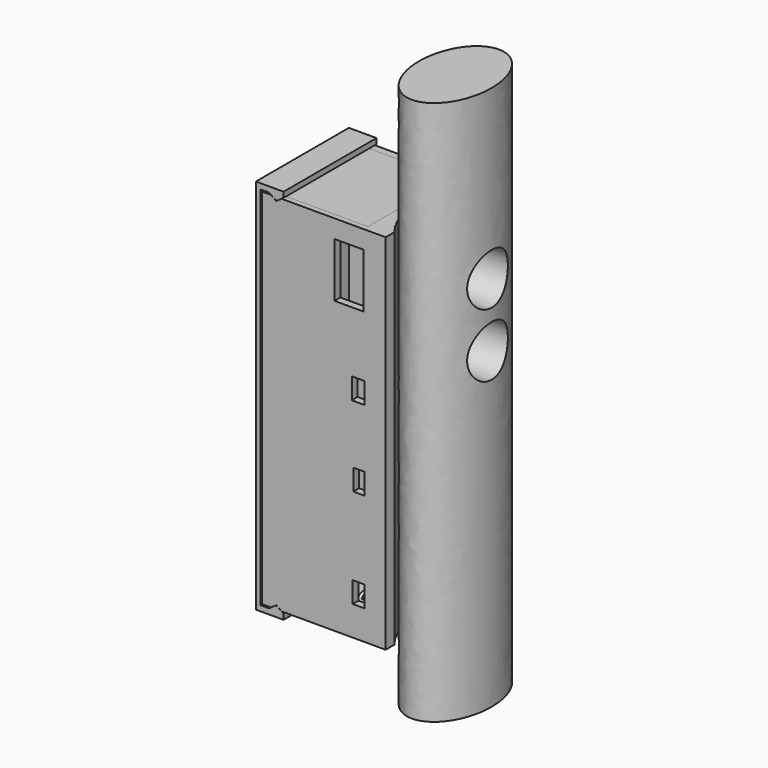
from build123d import *

# Parameters (mm, degrees)
SKETCH001_AS_DRAWN_R                      = 7
EXTRUDE001_DEPTH                          = 15
EXTRUDE001_ONTO_SKETCH001_ROLL_ANGLE      = 90
EXTRUDE001_ONTO_SKETCH001_PLACEMENT_ANGLE = 89.999862
EXTRUDE_DEPTH                             = 150
EXTRUDE008_DEPTH                          = 16
SKETCH011_W                               = 3.217844
SKETCH011_H                               = 5.802109
SKETCH011_W_2                             = 3.034968
SKETCH011_W_3                             = 3.460063
SKETCH011_H_2                             = 5.82222
EXTRUDE010_DEPTH                          = 40
EXTRUDE009_DEPTH                          = 32
SKETCH008_W                               = 8
SKETCH008_H                               = 15
EXTRUDE007_DEPTH                          = 5
SKETCH007_W                               = 8
SKETCH007_H                               = 12
EXTRUDE006_DEPTH                          = 5
SKETCH006_R                               = 2.5
SKETCH006_R_2                             = 1.5
SKETCH006_W                               = 28.128971
SKETCH006_H                               = 2
SKETCH006_W_2                             = 28.562514
EXTRUDE005_DEPTH                          = 4
EXTRUDE003_DEPTH                          = 100
SKETCH005_W                               = 28.128971
SKETCH005_H                               = 2
SKETCH005_W_2                             = 28.562514
EXTRUDE004_DEPTH                          = 28


with BuildPart() as extrude001:
    # Sketch001 as drawn → Extrude001 (new, symmetric)
    with BuildSketch(Plane.XY):
        with Locations((0, 28.747726)):
            Circle(SKETCH001_AS_DRAWN_R)
        with Locations((0, 11.284538)):
            Circle(SKETCH001_AS_DRAWN_R)
    extrude(amount=EXTRUDE001_DEPTH, both=True)


with BuildPart() as extrude001_1:
    # Extrude001 onto Sketch001 roll: moved
    add(extrude001.part.rotate(Axis((0, 0, 0), (1, 0, 0)), EXTRUDE001_ONTO_SKETCH001_ROLL_ANGLE))


with BuildPart() as extrude001_2:
    # Extrude001 onto Sketch001 placement: moved
    add(extrude001_1.part.moved(Location((-1e-06, -1.3e-05, 151))).rotate(Axis((-1e-06, -1.3e-05, 151), (0, 0, 1)), EXTRUDE001_ONTO_SKETCH001_PLACEMENT_ANGLE))


with BuildPart() as pickaxebody:
    # Sketch → Extrude (new body)
    with BuildSketch(Plane.XY):
        with BuildLine():
            add(Edge.make_bspline(
                [(9.838755, -2.682818), (12.936607, 22.879017), (-3.370452, 14.122327), (-19.67751, 5.365637), (-6.468304, -11.439509), (6.740903, -28.244654), (9.838755, -2.682818)],
                knots=[1.390974, 1.390974, 1.390974, 3.485369, 3.485369, 5.579764, 5.579764, 7.67416, 7.67416, 7.67416], degree=2, weights=[1, 0.5, 1, 0.5, 1, 0.5, 1]))
        make_face()
    extrude(amount=EXTRUDE_DEPTH)


with BuildPart() as pickaxebody_1:
    # Extrude placement: moved
    add(pickaxebody.part.moved(Location((0, 0, 76))))

    # Cut: cut Extrude001
    add(extrude001_2.part, mode=Mode.SUBTRACT)


with BuildPart() as lid:
    # Sketch009 → Extrude008 (new body, symmetric)
    with BuildSketch(Plane.XZ):
        Polygon((-38.512329, 191.39), (-36.512329, 190.044388), (-34.512329, 191.39), (-34.512329, 192.89), (-42.121239, 192.89), (-42.121239, 141), (-42.121239, 89.11), (-34.512329, 89.11), (-34.512329, 90.61), (-36.512329, 91.955612), (-38.512329, 90.61), (-40.786865, 90.61), (-40.786865, 141), (-40.786865, 191.39), align=None)
    extrude(amount=EXTRUDE008_DEPTH, both=True)


with BuildPart() as extrude010:
    # Sketch011 → Extrude010 (new body, symmetric)
    with BuildSketch(Plane.XZ):
        with Locations((-13.877928, 102.039749)):
            Rectangle(SKETCH011_W, SKETCH011_H)
        with Locations((-13.78649, 129.350418)):
            Rectangle(SKETCH011_W_2, SKETCH011_H)
        with Locations((-13.999038, 151.356178)):
            Rectangle(SKETCH011_W_3, SKETCH011_H_2)
    extrude(amount=EXTRUDE010_DEPTH, both=True)


with BuildPart() as extrude009:
    # Sketch010 (on Face14 of Cut003) → Extrude009 (new body)
    with BuildSketch(Plane.XZ.offset(16)):
        Polygon((-38.009611, 191), (-36.509611, 189.988237), (-35.009611, 191), align=None)
        Polygon((-38.009611, 91), (-36.509611, 92.011763), (-35.009611, 91), align=None)
    extrude(amount=-EXTRUDE009_DEPTH)


with BuildPart() as extrude007:
    # Sketch008 (on Face14 of Cut002) → Extrude007 (new body, symmetric)
    with BuildSketch(Plane.XZ.offset(16)):
        with Locations((-16.46, 178.5)):
            Rectangle(SKETCH008_W, SKETCH008_H)
    extrude(amount=EXTRUDE007_DEPTH, both=True)


with BuildPart() as extrude006:
    # Sketch007 (on Face10 of Fusion001) → Extrude006 (new body, symmetric)
    with BuildSketch(Plane(origin=(0, 16, 0), x_dir=(-1, 0, 0), z_dir=(0, 1, 0))):
        with Locations((16.38, 154.99)):
            Rectangle(SKETCH007_W, SKETCH007_H)
    extrude(amount=EXTRUDE006_DEPTH, both=True)


with BuildPart() as extrude005:
    # Sketch006 (on Face12 of Cut001) → Extrude005 (new body)
    with BuildSketch(Plane(origin=(-12.46, 0, 0), x_dir=(0, -1, 0), z_dir=(-1, 0, 0))):
        with Locations((-11, 185.59)):
            Circle(SKETCH006_R)
        with Locations((-11, 185.59)):
            Circle(SKETCH006_R_2, mode=Mode.SUBTRACT)
        with Locations((11, 185.59)):
            Circle(SKETCH006_R)
        with Locations((11, 185.59)):
            Circle(SKETCH006_R_2, mode=Mode.SUBTRACT)
        with Locations((-11, 97.59)):
            Circle(SKETCH006_R)
        with Locations((-11, 97.59)):
            Circle(SKETCH006_R_2, mode=Mode.SUBTRACT)
        with Locations((11, 97.59)):
            Circle(SKETCH006_R)
        with Locations((11, 97.59)):
            Circle(SKETCH006_R_2, mode=Mode.SUBTRACT)
        with Locations((0.084315, 92.000002)):
            Rectangle(SKETCH006_W, SKETCH006_H)
        with Locations((0.242591, 190.000003)):
            Rectangle(SKETCH006_W_2, SKETCH006_H)
    extrude(amount=EXTRUDE005_DEPTH)


with BuildPart() as cut001:
    # Sketch004 → Extrude003 (new body)
    with BuildSketch(Plane.XY):
        with BuildLine():
            Line((-40.46, 16), (-6.4, 16))
            Line((-6.4, 16), (-6.4, 13))
            ThreePointArc((-6.4, 13), (-10.990486, 0), (-6.4, -13))
            Line((-6.4, -16), (-6.4, -13))
            Line((-40.46, -16), (-6.4, -16))
            Line((-40.46, -14), (-40.46, -16))
            Line((-12.46, -14), (-40.46, -14))
            Line((-12.46, 14), (-12.46, -14))
            Line((-40.46, 14), (-12.46, 14))
            Line((-40.46, 16), (-40.46, 14))
        make_face()
    extrude(amount=EXTRUDE003_DEPTH)


with BuildPart() as cut001_1:
    # Extrude003 placement: moved
    add(cut001.part.moved(Location((0, 0, 91))))

    # Cut001: cut Extrude001
    add(extrude001_2.part, mode=Mode.SUBTRACT)


with BuildPart() as body:
    # Sketch005 (on Face12 of Cut001) → Extrude004 (new body)
    with BuildSketch(Plane(origin=(-12.46, 0, 0), x_dir=(0, -1, 0), z_dir=(-1, 0, 0))):
        with Locations((0.084315, 92.000002)):
            Rectangle(SKETCH005_W, SKETCH005_H)
        with Locations((0.242591, 190.000003)):
            Rectangle(SKETCH005_W_2, SKETCH005_H)
    extrude(amount=EXTRUDE004_DEPTH)

    # Fusion: union Cut001
    add(cut001_1.part)

    # Fusion001: union Extrude005
    add(extrude005.part)

    # Cut002: cut Extrude006
    add(extrude006.part, mode=Mode.SUBTRACT)

    # Cut003: cut Extrude007
    add(extrude007.part, mode=Mode.SUBTRACT)

    # Cut004: cut Extrude009
    add(extrude009.part, mode=Mode.SUBTRACT)

    # Cut005: cut Extrude010
    add(extrude010.part, mode=Mode.SUBTRACT)


solid = Compound([pickaxebody_1.part, lid.part, body.part])
